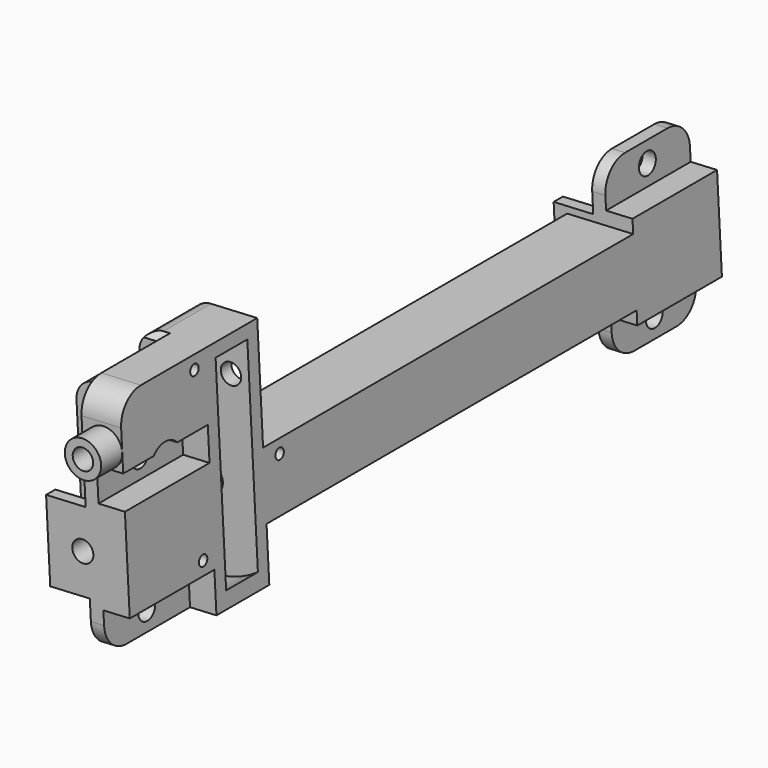
from build123d import *

# Parameters (mm, degrees)
CYLINDER369_R          = 0.8
CYLINDER369_DEPTH      = 5
CYLINDER370_R          = 0.8
CYLINDER370_DEPTH      = 5
CYLINDER368_R          = 0.8
CYLINDER368_DEPTH      = 5
CYLINDER362_R          = 1.6
CYLINDER362_DEPTH      = 10
CYLINDER361_R          = 1.6
CYLINDER361_DEPTH      = 10
CYLINDER360_R          = 1.6
CYLINDER360_DEPTH      = 10
CYLINDER359_R          = 1.6
CYLINDER359_DEPTH      = 10
CYLINDER371_R          = 2
CYLINDER371_DEPTH      = 102
CYLINDER363_R          = 2
CYLINDER363_DEPTH      = 102
BOX260_W               = 10
BOX260_H               = 70
BOX260_DEPTH           = 10
CYLINDER367_R          = 1.55
CYLINDER367_DEPTH      = 47
CYLINDER366_R          = 3
CYLINDER366_DEPTH      = 4
BOX262_W               = 6
BOX262_H               = 16
BOX262_DEPTH           = 10
BOX265_W               = 10
BOX265_H               = 6
BOX265_DEPTH           = 11
BOX264_W               = 10
BOX264_H               = 10
BOX264_DEPTH           = 9
CYLINDER365_R          = 12.5
CYLINDER365_DEPTH      = 6
BOX263_W               = 20
BOX263_H               = 10
BOX263_DEPTH           = 26
CYLINDER364_R          = 2.75
CYLINDER364_DEPTH      = 20
CYLINDER358_R          = 1.6
CYLINDER358_DEPTH      = 112
BOX259_W               = 8
BOX259_H               = 2
BOX259_DEPTH           = 6
BOX258_W               = 8
BOX258_H               = 2
BOX258_DEPTH           = 6
FILLET100_R            = 2.5
BOX255_W               = 10
BOX255_H               = 12.5
BOX255_DEPTH           = 12
BOX253_W               = 2
BOX253_H               = 16
BOX253_DEPTH           = 26
BOX254_W               = 4
BOX254_H               = 16
BOX254_DEPTH           = 14
BOX252_W               = 12
BOX252_H               = 16
BOX252_DEPTH           = 12
BOX257_W               = 8
BOX257_H               = 2
BOX257_DEPTH           = 6
BOX256_W               = 8
BOX256_H               = 2
BOX256_DEPTH           = 6
FILLET099_R            = 2.5
BOX251_W               = 10
BOX251_H               = 12.5
BOX251_DEPTH           = 12
BOX249_W               = 2
BOX249_H               = 16
BOX249_DEPTH           = 26
BOX250_W               = 4
BOX250_H               = 16
BOX250_DEPTH           = 14
BOX248_W               = 12
BOX248_H               = 16
BOX248_DEPTH           = 12
CUT273_PLACEMENT_ANGLE = 3
CHAMFER025_SIZE        = 1
FILLET101_R            = 4
FILLET102_R            = 3


with BuildPart() as cylinder545:
    # Cylinder369 → Cylinder369 (new body)
    with BuildSketch(Plane(origin=(331, 23, -46), x_dir=(0, 0, -1), z_dir=(1, 0, 0))):
        Circle(CYLINDER369_R)
    extrude(amount=CYLINDER369_DEPTH)


with BuildPart() as cylinder546:
    # Cylinder370 → Cylinder370 (new body)
    with BuildSketch(Plane(origin=(331, 8, -29), x_dir=(0, 0, -1), z_dir=(1, 0, 0))):
        Circle(CYLINDER370_R)
    extrude(amount=CYLINDER370_DEPTH)


with BuildPart() as fusion315:
    # Cylinder368 → Cylinder368 (new body)
    with BuildSketch(Plane(origin=(331, 8, -54), x_dir=(0, 0, -1), z_dir=(1, 0, 0))):
        Circle(CYLINDER368_R)
    extrude(amount=CYLINDER368_DEPTH)

    # Fusion315: union Cylinder545, Cylinder546
    add(cylinder545.part)
    add(cylinder546.part)


with BuildPart() as fusion315_1:
    # Fusion315 placement: moved
    add(fusion315.part.moved(Location((0, -10, 0))))


with BuildPart() as cylinder538:
    # Cylinder362 → Cylinder362 (new body)
    with BuildSketch(Plane(origin=(323, 0, -39), x_dir=(0, 0, -1), z_dir=(1, 0, 0))):
        Circle(CYLINDER362_R)
    extrude(amount=CYLINDER362_DEPTH)


with BuildPart() as fusion312:
    # Cylinder361 → Cylinder361 (new body)
    with BuildSketch(Plane(origin=(323, 0, -59), x_dir=(0, 0, -1), z_dir=(1, 0, 0))):
        Circle(CYLINDER361_R)
    extrude(amount=CYLINDER361_DEPTH)

    # Fusion312: union Cylinder538
    add(cylinder538.part)


with BuildPart() as fusion312_1:
    # Fusion312 placement: moved
    add(fusion312.part.moved(Location((3, 88, 0))))


with BuildPart() as cylinder536:
    # Cylinder360 → Cylinder360 (new body)
    with BuildSketch(Plane(origin=(323, 0, -39), x_dir=(0, 0, -1), z_dir=(1, 0, 0))):
        Circle(CYLINDER360_R)
    extrude(amount=CYLINDER360_DEPTH)


with BuildPart() as fusion316:
    # Cylinder359 → Cylinder359 (new body)
    with BuildSketch(Plane(origin=(323, 0, -59), x_dir=(0, 0, -1), z_dir=(1, 0, 0))):
        Circle(CYLINDER359_R)
    extrude(amount=CYLINDER359_DEPTH)

    # Fusion311: union Cylinder536
    add(cylinder536.part)


with BuildPart() as fusion316_1:
    # Fusion311 placement: moved
    add(fusion316.part.moved(Location((3, -8, 0))))

    # Fusion316: union Fusion312
    add(fusion312_1.part)


with BuildPart() as cylinder547:
    # Cylinder371 → Cylinder371 (new body)
    with BuildSketch(Plane(origin=(329.25, 91, -49), x_dir=(1, 0, 0), z_dir=(0, -1, 0))):
        Circle(CYLINDER371_R)
    extrude(amount=CYLINDER371_DEPTH)


with BuildPart() as cylinder539:
    # Cylinder363 → Cylinder363 (new body)
    with BuildSketch(Plane(origin=(329.25, 86, -49), x_dir=(1, 0, 0), z_dir=(0, -1, 0))):
        Circle(CYLINDER363_R)
    extrude(amount=CYLINDER363_DEPTH)


with BuildPart() as cut265:
    # Box260 → Box260 (new body)
    with BuildSketch(Plane(origin=(326, 10, -54), x_dir=(1, 0, 0), z_dir=(0, 0, 1))):
        with Locations((5, 35)):
            Rectangle(BOX260_W, BOX260_H)
    extrude(amount=BOX260_DEPTH)

    # Cut265: cut Cylinder539
    add(cylinder539.part, mode=Mode.SUBTRACT)


with BuildPart() as cylinder543:
    # Cylinder367 → Cylinder367 (new body)
    with BuildSketch(Plane(origin=(333.25, 20, -34.25), x_dir=(1, 0, 0), z_dir=(0, -1, 0))):
        Circle(CYLINDER367_R)
    extrude(amount=CYLINDER367_DEPTH)


with BuildPart() as cylinder542:
    # Cylinder366 → Cylinder366 (new body)
    with BuildSketch(Plane(origin=(332, 2, -39), x_dir=(0, 0, -1), z_dir=(1, 0, 0))):
        Circle(CYLINDER366_R)
    extrude(amount=CYLINDER366_DEPTH)


with BuildPart() as cube342:
    # Box262 → Box262 (new body)
    with BuildSketch(Plane(origin=(330, -6, -37), x_dir=(1, 0, 0), z_dir=(0, 0, 1))):
        with Locations((3, 8)):
            Rectangle(BOX262_W, BOX262_H)
    extrude(amount=BOX262_DEPTH)


with BuildPart() as cube345:
    # Box265 → Box265 (new body)
    with BuildSketch(Plane(origin=(328, 12, -40), x_dir=(1, 0, 0), z_dir=(0, 0, 1))):
        with Locations((5, 3)):
            Rectangle(BOX265_W, BOX265_H)
    extrude(amount=BOX265_DEPTH)


with BuildPart() as cube344:
    # Box264 → Box264 (new body)
    with BuildSketch(Plane(origin=(326, 10, -36), x_dir=(1, 0, 0), z_dir=(0, 0, 1))):
        with Locations((5, 5)):
            Rectangle(BOX264_W, BOX264_H)
    extrude(amount=BOX264_DEPTH)


with BuildPart() as cylinder541:
    # Cylinder365 → Cylinder365 (new body)
    with BuildSketch(Plane(origin=(329.25, 18, -49), x_dir=(1, 0, 0), z_dir=(0, -1, 0))):
        Circle(CYLINDER365_R)
    extrude(amount=CYLINDER365_DEPTH)


with BuildPart() as cut268:
    # Box263 → Box263 (new body)
    with BuildSketch(Plane(origin=(316, 10, -62), x_dir=(1, 0, 0), z_dir=(0, 0, 1))):
        with Locations((10, 5)):
            Rectangle(BOX263_W, BOX263_H)
    extrude(amount=BOX263_DEPTH)

    # Cut269: cut Cylinder541
    add(cylinder541.part, mode=Mode.SUBTRACT)

    # Fusion314: union Cube344
    add(cube344.part)

    # Cut268: cut Cube345
    add(cube345.part, mode=Mode.SUBTRACT)


with BuildPart() as cut271:
    # Cylinder364 → Cylinder364 (new body)
    with BuildSketch(Plane(origin=(333.25, 10, -34.25), x_dir=(1, 0, 0), z_dir=(0, -1, 0))):
        Circle(CYLINDER364_R)
    extrude(amount=CYLINDER364_DEPTH)

    # Fusion313: union Cube342, Cut268
    add(cube342.part)
    add(cut268.part)

    # Cut267: cut Cylinder542
    add(cylinder542.part, mode=Mode.SUBTRACT)

    # Cut266: cut Cylinder543
    add(cylinder543.part, mode=Mode.SUBTRACT)


with BuildPart() as cut271_1:
    # Cut266 placement: moved
    add(cut271.part.moved(Location((0, -10, 0))))

    # Fusion318: union Cut265
    add(cut265.part)

    # Cut271: cut Cylinder547
    add(cylinder547.part, mode=Mode.SUBTRACT)


with BuildPart() as cylinder534:
    # Cylinder358 → Cylinder358 (new body)
    with BuildSketch(Plane(origin=(329.25, 96, -49), x_dir=(1, 0, 0), z_dir=(0, -1, 0))):
        Circle(CYLINDER358_R)
    extrude(amount=CYLINDER358_DEPTH)


with BuildPart() as cube339:
    # Box259 → Box259 (new body)
    with BuildSketch(Plane(origin=(328, -4.5, -52), x_dir=(1, 0, 0), z_dir=(0, 0, 1))):
        with Locations((4, 1)):
            Rectangle(BOX259_W, BOX259_H)
    extrude(amount=BOX259_DEPTH)


with BuildPart() as fillet100:
    # Box258 → Box258 (new body)
    with BuildSketch(Plane(origin=(328, 6.25, -52), x_dir=(1, 0, 0), z_dir=(0, 0, 1))):
        with Locations((4, 1)):
            Rectangle(BOX258_W, BOX258_H)
    extrude(amount=BOX258_DEPTH)

    # Fusion309: union Cube339
    add(cube339.part)

    # Fillet100
    fillet100_edges = [fillet100.edges().sort_by_distance(p)[0] for p in [
        (328, 7.25, -46),
        (328, 7.25, -52),
        (328, -3.5, -46),
        (328, -3.5, -52),
    ]]
    fillet(fillet100_edges, radius=FILLET100_R)


with BuildPart() as fillet100_1:
    # Fillet100 placement: moved
    add(fillet100.part.moved(Location((-1.5, 86.25, 0))))


with BuildPart() as cube335:
    # Box255 → Box255 (new body)
    with BuildSketch(Plane(origin=(324, -4.25, -55), x_dir=(1, 0, 0), z_dir=(0, 0, 1))):
        with Locations((5, 6.25)):
            Rectangle(BOX255_W, BOX255_H)
    extrude(amount=BOX255_DEPTH)


with BuildPart() as cube333:
    # Box253 → Box253 (new body)
    with BuildSketch(Plane(origin=(330, -6, -62), x_dir=(1, 0, 0), z_dir=(0, 0, 1))):
        with Locations((1, 8)):
            Rectangle(BOX253_W, BOX253_H)
    extrude(amount=BOX253_DEPTH)


with BuildPart() as cube334:
    # Box254 → Box254 (new body)
    with BuildSketch(Plane(origin=(332, -6, -56), x_dir=(1, 0, 0), z_dir=(0, 0, 1))):
        with Locations((2, 8)):
            Rectangle(BOX254_W, BOX254_H)
    extrude(amount=BOX254_DEPTH)


with BuildPart() as cut264:
    # Box252 → Box252 (new body)
    with BuildSketch(Plane(origin=(324, -6, -55), x_dir=(1, 0, 0), z_dir=(0, 0, 1))):
        with Locations((6, 8)):
            Rectangle(BOX252_W, BOX252_H)
    extrude(amount=BOX252_DEPTH)

    # Fusion307: union Cube333, Cube334
    add(cube333.part)
    add(cube334.part)

    # Cut264: cut Cube335
    add(cube335.part, mode=Mode.SUBTRACT)


with BuildPart() as cut264_1:
    # Cut264 placement: moved
    add(cut264.part.moved(Location((0, 86, 0))))


with BuildPart() as cube337:
    # Box257 → Box257 (new body)
    with BuildSketch(Plane(origin=(328, -4.5, -52), x_dir=(1, 0, 0), z_dir=(0, 0, 1))):
        with Locations((4, 1)):
            Rectangle(BOX257_W, BOX257_H)
    extrude(amount=BOX257_DEPTH)


with BuildPart() as fillet099:
    # Box256 → Box256 (new body)
    with BuildSketch(Plane(origin=(328, 6.25, -52), x_dir=(1, 0, 0), z_dir=(0, 0, 1))):
        with Locations((4, 1)):
            Rectangle(BOX256_W, BOX256_H)
    extrude(amount=BOX256_DEPTH)

    # Fusion308: union Cube337
    add(cube337.part)

    # Fillet099
    fillet099_edges = [fillet099.edges().sort_by_distance(p)[0] for p in [
        (328, 7.25, -46),
        (328, 7.25, -52),
        (328, -3.5, -46),
        (328, -3.5, -52),
    ]]
    fillet(fillet099_edges, radius=FILLET099_R)


with BuildPart() as fillet099_1:
    # Fillet099 placement: moved
    add(fillet099.part.moved(Location((-1.5, -10, 0))))


with BuildPart() as cube331:
    # Box251 → Box251 (new body)
    with BuildSketch(Plane(origin=(324, -4.25, -55), x_dir=(1, 0, 0), z_dir=(0, 0, 1))):
        with Locations((5, 6.25)):
            Rectangle(BOX251_W, BOX251_H)
    extrude(amount=BOX251_DEPTH)


with BuildPart() as cube329:
    # Box249 → Box249 (new body)
    with BuildSketch(Plane(origin=(330, -6, -62), x_dir=(1, 0, 0), z_dir=(0, 0, 1))):
        with Locations((1, 8)):
            Rectangle(BOX249_W, BOX249_H)
    extrude(amount=BOX249_DEPTH)


with BuildPart() as cube330:
    # Box250 → Box250 (new body)
    with BuildSketch(Plane(origin=(332, -6, -56), x_dir=(1, 0, 0), z_dir=(0, 0, 1))):
        with Locations((2, 8)):
            Rectangle(BOX250_W, BOX250_H)
    extrude(amount=BOX250_DEPTH)


with BuildPart() as obj1:
    # Box248 → Box248 (new body)
    with BuildSketch(Plane(origin=(324, -6, -55), x_dir=(1, 0, 0), z_dir=(0, 0, 1))):
        with Locations((6, 8)):
            Rectangle(BOX248_W, BOX248_H)
    extrude(amount=BOX248_DEPTH)

    # Fusion306: union Cube329, Cube330
    add(cube329.part)
    add(cube330.part)

    # Cut263: cut Cube331
    add(cube331.part, mode=Mode.SUBTRACT)


with BuildPart() as obj1_1:
    # Cut263 placement: moved
    add(obj1.part.moved(Location((0, -10, 0))))

    # Fusion317: union Fillet100, Cut264, Fillet099
    add(fillet100_1.part)
    add(cut264_1.part)
    add(fillet099_1.part)

    # Cut270: cut Cylinder534
    add(cylinder534.part, mode=Mode.SUBTRACT)

    # Fusion319: union Cut271
    add(cut271_1.part)

    # Cut272: cut Fusion316
    add(fusion316_1.part, mode=Mode.SUBTRACT)

    # Cut273: cut Fusion315
    add(fusion315_1.part, mode=Mode.SUBTRACT)


with BuildPart() as obj1_2:
    # Cut273 placement: moved
    add(obj1_1.part.moved(Location((-80, -9, 0))).rotate(Axis((-80, -9, 0), (0, -1, 0)), CUT273_PLACEMENT_ANGLE))

    # Chamfer025
    chamfer025_edges = [obj1_2.edges().sort_by_distance(p)[0] for p in [
        (248.963558, -9, -9.796804),
    ]]
    chamfer(chamfer025_edges, length=CHAMFER025_SIZE)

    # Fillet101
    fillet101_edges = [obj1_2.edges().sort_by_distance(p)[0] for p in [
        (253.956706, -25, -9.535124),
        (253.791205, -25, -44.59183),
        (252.43047, 71, -18.627462),
        (253.791205, 71, -44.59183),
        (253.791205, 87, -44.59183),
        (252.43047, 87, -18.627462),
    ]]
    fillet(fillet101_edges, radius=FILLET101_R)

    # Fillet102
    fillet102_edges = [obj1_2.edges().sort_by_distance(p)[0] for p in [
        (246.966299, -3.5, -9.901476),
        (238.811762, -4, -45.376869),
        (237.451027, -4, -19.412501),
    ]]
    fillet(fillet102_edges, radius=FILLET102_R)


solid = obj1_2.part
